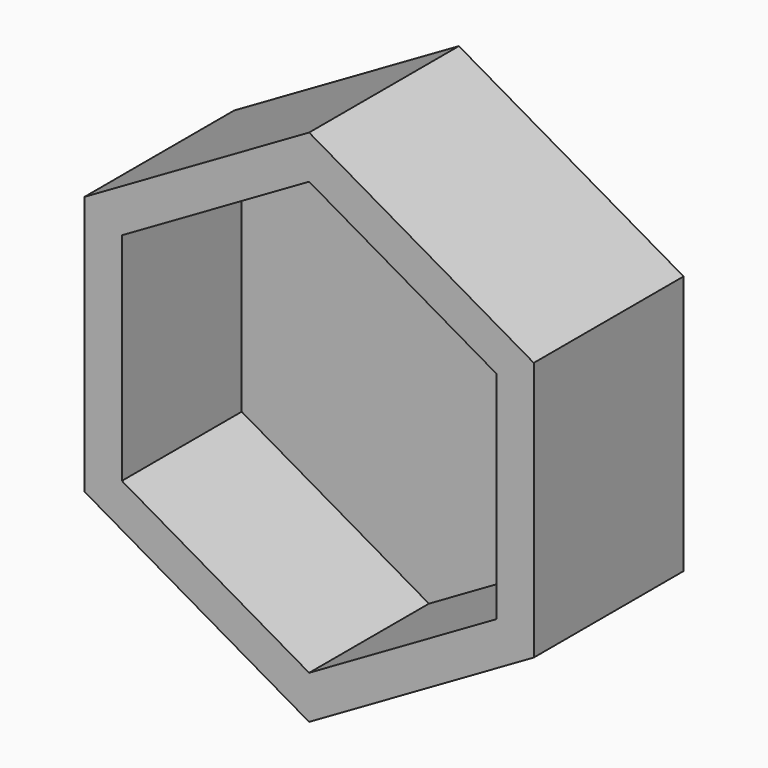
from build123d import *

# Parameters (mm, degrees)
F1_DEPTH = 5
F3_DEPTH = 1


with BuildPart() as f1:
    # F0 (on Front) → F1 (new body)
    with BuildSketch(Plane.XZ):
        Polygon((0, 6.928203), (-6, 3.464102), (-6, -3.464102), (0, -6.928203), (6, -3.464102), (6, 3.464102), align=None)
        Polygon((0, -5.773503), (-5, -2.886751), (-5, 2.886751), (0, 5.773503), (5, 2.886751), (5, -2.886751), align=None, mode=Mode.SUBTRACT)
    extrude(amount=-F1_DEPTH)

    # F2 (on face) → F3 (join)
    with BuildSketch(Plane(origin=(0, 5, 0), x_dir=(-1, 0, 0), z_dir=(0, 1, 0))):
        Polygon((6, 3.464102), (0, 6.928203), (-6, 3.464102), (-6, -3.464102), (0, -6.928203), (6, -3.464102), align=None)
    extrude(amount=-F3_DEPTH)


solid = f1.part
